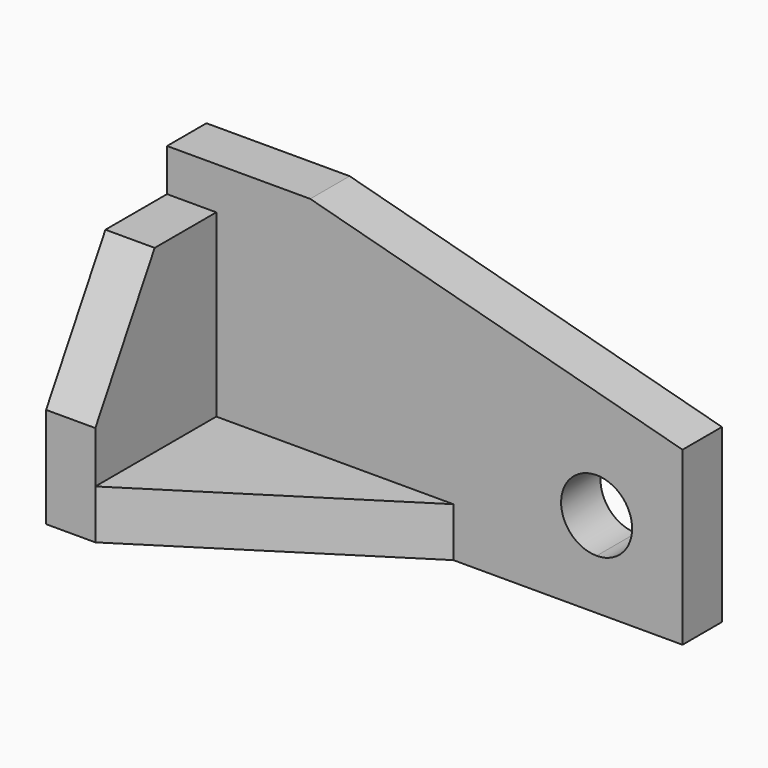
from build123d import *

# Parameters (mm, degrees)
F1_DEPTH = 44.45
F2_DEPTH = 10.922
F4_DEPTH = 10.922
F6_DEPTH = 10.922


with BuildPart() as f1:
    # F0 (on Front) → F1 (new body)
    with BuildSketch(Plane.XZ):
        Polygon((0, -9.398), (0, -60.198), (63.5, -60.198), (63.5, -49.276), (10.922, -49.276), (10.922, -9.398), align=None)
    extrude(amount=F1_DEPTH)

    # F0 (on Front) → F2 (join)
    with BuildSketch(Plane.XZ):
        with BuildLine():
            Line((0, 0), (0, -9.398))
            Line((0, -9.398), (10.922, -9.398))
            Line((10.922, -9.398), (10.922, -49.276))
            Line((10.922, -49.276), (63.5, -49.276))
            Line((63.5, -49.276), (63.5, -60.198))
            Line((63.5, -60.198), (95.25, -60.198))
            Line((95.25, -60.198), (95.25, -49.022))
            ThreePointArc((95.25, -49.022), (89.6822412049, -35.5802412049), (103.124, -41.148))
            Line((103.124, -41.148), (114.3, -41.148))
            Line((114.3, -41.148), (114.3, -22.1192058352))
            Line((114.3, -22.1192058352), (31.75, 0))
            Line((31.75, 0), (0, 0))
        make_face()
        with BuildLine():
            Line((95.25, -49.022), (95.25, -60.198))
            Line((95.25, -60.198), (114.3, -60.198))
            Line((114.3, -60.198), (114.3, -41.148))
            Line((114.3, -41.148), (103.124, -41.148))
            ThreePointArc((103.124, -41.148), (100.8177587951, -46.7157587951), (95.25, -49.022))
        make_face()
    extrude(amount=F2_DEPTH)

    # F3 (on face) → F4 (cut)
    with BuildSketch(Plane.XY.offset(-49.276)):
        Polygon((63.5, -10.922), (10.922, -44.45), (63.5, -44.45), align=None)
    extrude(amount=-F4_DEPTH, mode=Mode.SUBTRACT)

    # F5 (on face) → F6 (cut)
    with BuildSketch(Plane.YZ.offset(10.922)):
        Polygon((-44.45, -9.398), (-44.45, -37.8848304495), (-28.0031207716, -9.398), align=None)
    extrude(amount=-F6_DEPTH, mode=Mode.SUBTRACT)


solid = f1.part
